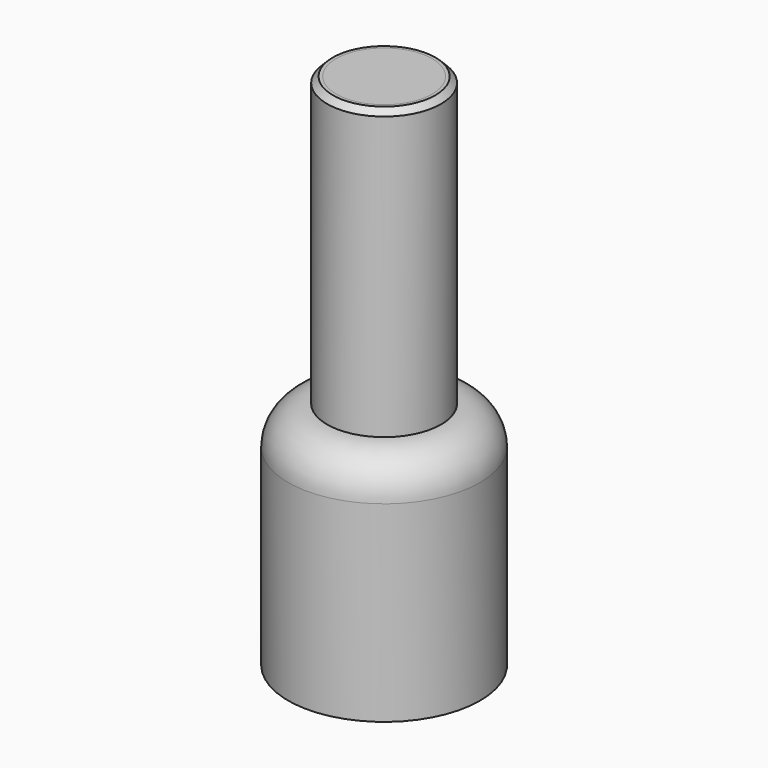
from build123d import *

# Parameters (mm, degrees)
F0_R     = 50
F1_DEPTH = 120
F2_R     = 25
F3_DEPTH = 150
F4_R     = 20
F5_R     = 29.672966
F5_R_2   = 25
F6_DEPTH = 150
F7_SIZE  = 3


with BuildPart() as f1:
    # F0 (on Top) → F1 (new body)
    with BuildSketch(Plane.XY):
        Circle(F0_R)
    extrude(amount=F1_DEPTH)

    # F4
    f4_edges = [f1.edges().sort_by_distance(p)[0] for p in [
        (-50, 0, 120),
    ]]
    fillet(f4_edges, radius=F4_R)


with BuildPart() as f3:
    # F2 (on face) → F3 (new body)
    with BuildSketch(Plane.XY.offset(120)):
        Circle(F2_R)
    extrude(amount=F3_DEPTH)


with BuildPart() as f6:
    # F5 (on face) → F6 (new body)
    with BuildSketch(Plane.XY.offset(270)):
        Circle(F5_R)
        Circle(F5_R_2, mode=Mode.SUBTRACT)
    extrude(amount=-F6_DEPTH)

    # F7
    f7_edges = [f6.edges().sort_by_distance(p)[0] for p in [
        (-29.672966, 0, 270),
    ]]
    chamfer(f7_edges, length=F7_SIZE)


solid = Compound([f1.part, f3.part, f6.part])
